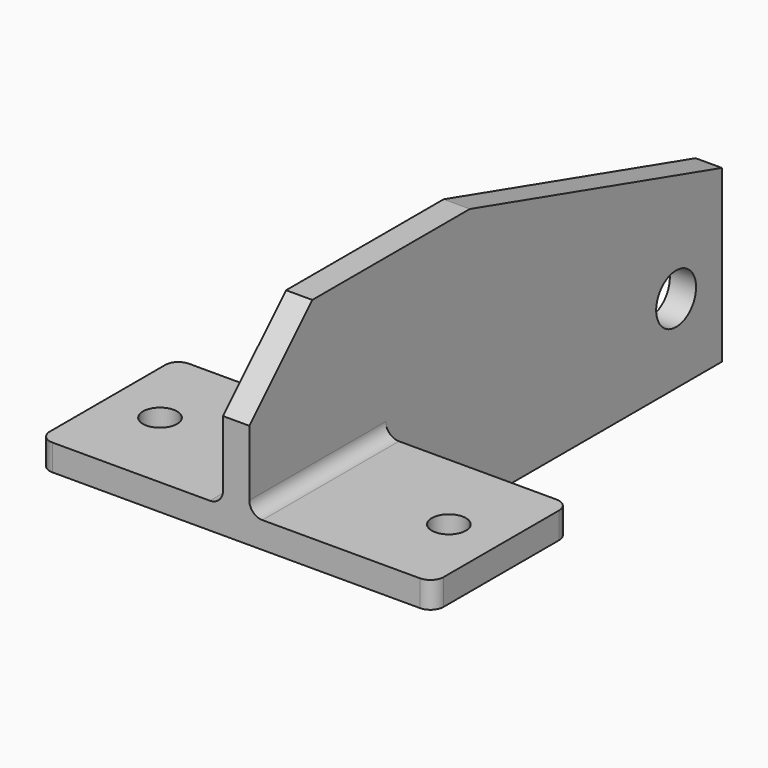
from build123d import *

# Parameters (mm, degrees)
F0_R     = 9.5
F1_DEPTH = 5
F2_R     = 6.5
F2_W     = 10
F2_H     = 65
F3_DEPTH = 10
F4_R     = 5


with BuildPart() as f1:
    # F0 (on Right) → F1 (new body, symmetric)
    with BuildSketch(Plane.YZ):
        Polygon((-115.6638563656, 25.4), (-115.6638563656, -14.6), (-50.6638563656, -14.6), (-50.6638563656, -24.125), (-0.6638563656, -44.6), (109.3361436344, -44.6), (109.3361436344, 20.4), (-10.6638563656, 55.4), (-85.6638563656, 55.4), align=None)
        with Locations((87.5361436344, -14.6)):
            Circle(F0_R, mode=Mode.SUBTRACT)
    extrude(amount=F1_DEPTH, both=True)

    # F2 (on face) → F3 (join)
    with BuildSketch(Plane(origin=(0, 0, -14.6), x_dir=(1, 0, 0), z_dir=(0, 0, -1))):
        with BuildLine():
            ThreePointArc((-75, 55.6638563656), (-73.5355339059, 52.1283224597), (-70, 50.6638563656))
            Line((-70, 50.6638563656), (-5, 50.6638563656))
            Line((-5, 50.6638563656), (-5, 115.6638563656))
            Line((-5, 115.6638563656), (-70, 115.6638563656))
            ThreePointArc((-70, 115.6638563656), (-73.5355339059, 114.1993902716), (-75, 110.6638563656))
            Line((-75, 110.6638563656), (-75, 55.6638563656))
        make_face()
        with Locations((-55, 83.1638563656)):
            Circle(F2_R, mode=Mode.SUBTRACT)
        with Locations((0, 83.1638563656)):
            Rectangle(F2_W, F2_H)
        with BuildLine():
            Line((5, 115.6638563656), (5, 50.6638563656))
            Line((5, 50.6638563656), (70, 50.6638563656))
            ThreePointArc((70, 50.6638563656), (73.5355339059, 52.1283224597), (75, 55.6638563656))
            Line((75, 55.6638563656), (75, 110.6638563656))
            ThreePointArc((75, 110.6638563656), (73.5355339059, 114.1993902716), (70, 115.6638563656))
            Line((70, 115.6638563656), (5, 115.6638563656))
        make_face()
        with Locations((55, 83.1638563656)):
            Circle(F2_R, mode=Mode.SUBTRACT)
    extrude(amount=-F3_DEPTH)

    # F4
    f4_edges = [f1.edges().sort_by_distance(p)[0] for p in [
        (5, -83.163856, -4.6),
        (-5, -83.163856, -4.6),
    ]]
    fillet(f4_edges, radius=F4_R)


solid = f1.part
